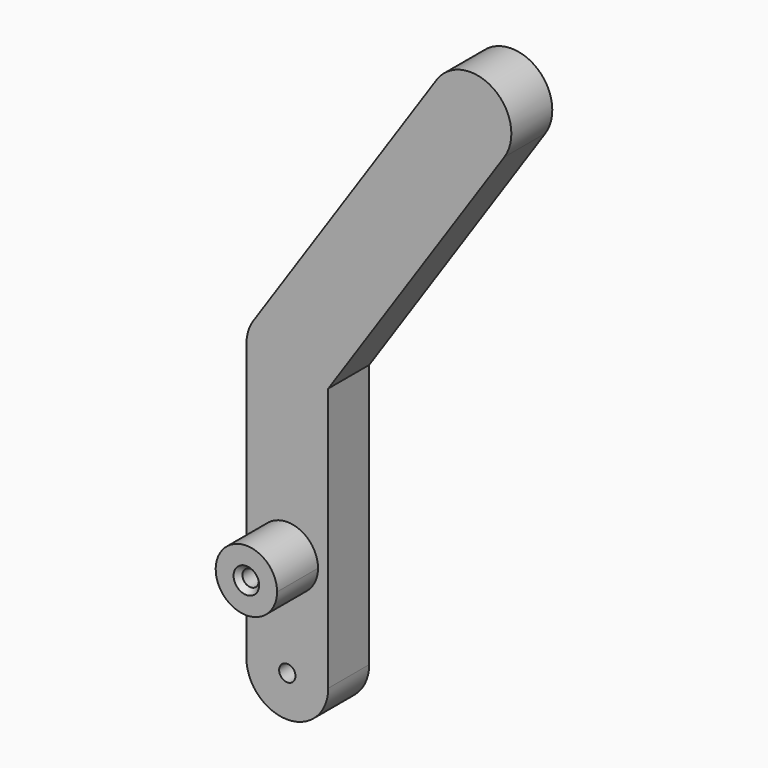
from build123d import *

# Parameters (mm, degrees)
F1_DEPTH       = 6.35
F3_DEPTH       = 6.35
F5_D           = 2.032
F5_CSINK_D     = 3.175
F5_CSINK_ANGLE = 82
F7_D           = 2.032


with BuildPart() as f1:
    # F0 (on Front) → F1 (new body)
    with BuildSketch(Plane.XZ):
        with BuildLine():
            ThreePointArc((-5.08, 12.7), (-3.5921024484, 9.1078975516), (0, 7.62))
            Line((0, 7.62), (0, 12.7))
            Line((0, 12.7), (0, 17.78))
            ThreePointArc((0, 17.78), (-3.5921024484, 16.2921024484), (-5.08, 12.7))
        make_face()
        with BuildLine():
            Line((0, 12.7), (0, 7.62))
            ThreePointArc((0, 7.62), (3.5921024484, 9.1078975516), (5.08, 12.7))
            ThreePointArc((5.08, 12.7), (3.5921024484, 16.2921024484), (0, 17.78))
            Line((0, 17.78), (0, 12.7))
        make_face()
        with BuildLine():
            ThreePointArc((5.08, 12.7), (3.5921024484, 9.1078975516), (0, 7.62))
            ThreePointArc((0, 7.62), (-3.5921024484, 9.1078975516), (-5.08, 12.7))
            Line((-5.08, 12.7), (-5.08, 0))
            ThreePointArc((-5.08, 0), (0, -5.08), (5.08, 0))
            Line((5.08, 0), (5.08, 12.7))
        make_face()
        with BuildLine():
            ThreePointArc((0, 17.78), (3.5921024484, 16.2921024484), (5.08, 12.7))
            Line((5.08, 12.7), (5.08, 32.7368881382))
            Line((5.08, 32.7368881382), (4.2115108686, 31.4493000504))
            ThreePointArc((4.2115108686, 31.4493000504), (2.384915539, 29.8046262283), (0, 29.21))
            Line((0, 29.21), (0, 17.78))
        make_face()
        with BuildLine():
            Line((-5.08, 34.29), (-5.08, 12.7))
            ThreePointArc((-5.08, 12.7), (-3.5921024484, 16.2921024484), (0, 17.78))
            Line((0, 17.78), (0, 29.21))
            ThreePointArc((0, 29.21), (-3.5921024484, 30.6978975516), (-5.08, 34.29))
        make_face()
        with BuildLine():
            Line((4.2115108686, 31.4493000504), (5.08, 32.7368881382))
            Line((5.08, 32.7368881382), (5.08, 34.29))
            ThreePointArc((5.08, 34.29), (4.4853737717, 36.674915539), (2.8406999496, 38.5015108686))
            Line((2.8406999496, 38.5015108686), (0, 34.29))
            Line((0, 34.29), (0, 29.21))
            ThreePointArc((0, 29.21), (2.384915539, 29.8046262283), (4.2115108686, 31.4493000504))
        make_face()
        with BuildLine():
            Line((5.08, 34.29), (5.08, 32.7368881382))
            Line((5.08, 32.7368881382), (26.9371104656, 65.141386999))
            ThreePointArc((26.9371104656, 65.141386999), (25.5662995467, 72.1935978172), (18.5140887285, 70.8227868983))
            Line((18.5140887285, 70.8227868983), (-4.2115108686, 37.1306999496))
            ThreePointArc((-4.2115108686, 37.1306999496), (-0.9693096965, 39.2766660919), (2.8406999496, 38.5015108686))
            ThreePointArc((2.8406999496, 38.5015108686), (4.4853737717, 36.674915539), (5.08, 34.29))
        make_face()
        with BuildLine():
            ThreePointArc((-4.2115108686, 37.1306999496), (-4.8580281603, 35.77524826), (-5.08, 34.29))
            ThreePointArc((-5.08, 34.29), (-3.5921024484, 30.6978975516), (0, 29.21))
            Line((0, 29.21), (0, 34.29))
            Line((0, 34.29), (2.8406999496, 38.5015108686))
            ThreePointArc((2.8406999496, 38.5015108686), (-0.9693096965, 39.2766660919), (-4.2115108686, 37.1306999496))
        make_face()
    extrude(amount=F1_DEPTH)

    # F2 (on face) → F3 (join)
    with BuildSketch(Plane.XZ.offset(6.35)):
        with BuildLine():
            ThreePointArc((0, 8.89), (2.6940768363, 10.0059231637), (3.81, 12.7))
            ThreePointArc((3.81, 12.7), (-2.6940768363, 15.3940768363), (0, 8.89))
        make_face()
    extrude(amount=F3_DEPTH)

    # F5 (through all)
    with Locations(Plane.XZ.offset(12.7)):
        with Locations((0, 12.7)):
            CounterSinkHole(F5_D / 2, F5_CSINK_D / 2, counter_sink_angle=F5_CSINK_ANGLE)

    # F7 (through all)
    with Locations(Plane.XZ.offset(6.35)):
        with Locations((0, 0)):
            Hole(F7_D / 2)


solid = f1.part
